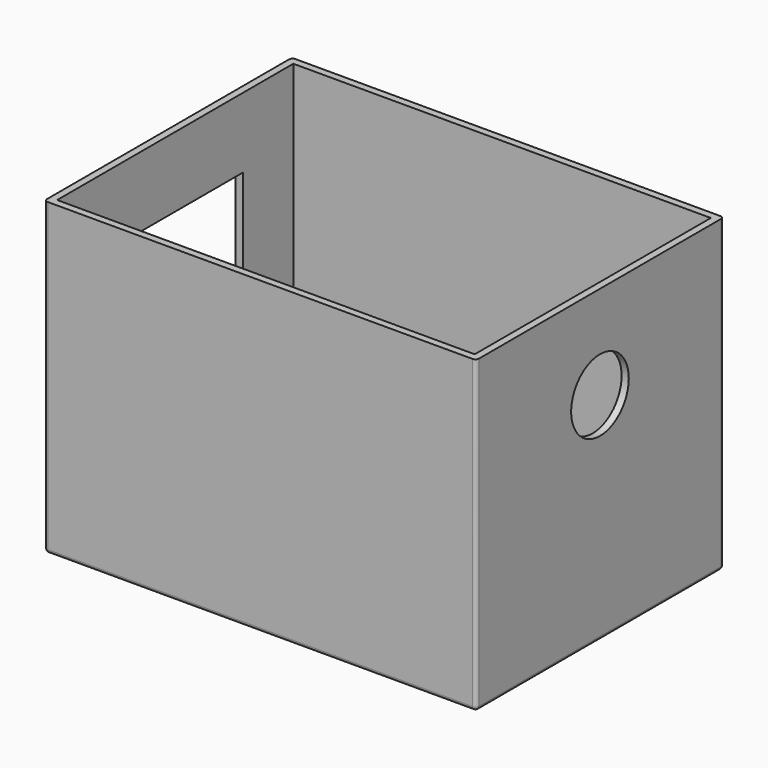
from build123d import *

# Parameters (mm, degrees)
SKETCH_W        = 120
SKETCH_H        = 86
PAD_DEPTH       = 86
SKETCH001_W     = 116
SKETCH001_H     = 82
POCKET_DEPTH    = 83
SKETCH002_W     = 47
SKETCH002_H     = 47
POCKET001_DEPTH = 3
SKETCH003_W     = 25
SKETCH003_H     = 72
POCKET002_DEPTH = 4
SKETCH004_R     = 10
POCKET003_DEPTH = 2
POCKET004_DEPTH = 5
FILLET_R        = 1


with BuildPart() as part:
    # Sketch → Pad (new body)
    with BuildSketch(Plane.XY):
        Rectangle(SKETCH_W, SKETCH_H)
    extrude(amount=PAD_DEPTH)

    # Sketch001 (on Face6 of Pad) → Pocket (cut)
    with BuildSketch(Plane.XY.offset(86)):
        Rectangle(SKETCH001_W, SKETCH001_H)
    extrude(amount=-POCKET_DEPTH, mode=Mode.SUBTRACT)

    # Sketch002 (on Face2 of Pocket) → Pocket001 (cut)
    with BuildSketch(Plane(origin=(-60, 0, 0), x_dir=(0, -1, 0), z_dir=(-1, 0, 0))):
        with Locations((0, 43)):
            Rectangle(SKETCH002_W, SKETCH002_H)
    extrude(amount=-POCKET001_DEPTH, mode=Mode.SUBTRACT)

    # Sketch003 (on Face4 of Pocket001) → Pocket002 (cut)
    with BuildSketch(Plane(origin=(0, 0, 0), x_dir=(1, 0, 0), z_dir=(0, 0, -1))):
        with Locations((40.5, 0)):
            Rectangle(SKETCH003_W, SKETCH003_H)
    extrude(amount=-POCKET002_DEPTH, mode=Mode.SUBTRACT)

    # Sketch004 (on Face3 of Pocket002) → Pocket003 (cut)
    with BuildSketch(Plane.YZ.offset(60)):
        with Locations((0, 60)):
            Circle(SKETCH004_R)
    extrude(amount=-POCKET003_DEPTH, mode=Mode.SUBTRACT)

    # Sketch005 → Pocket004 (cut)
    with BuildSketch(Plane(origin=(0, 0, 0), x_dir=(-1, 0, 0), z_dir=(0, 0, 1))):
        with BuildLine():
            add(Edge.make_bspline(
                [(5.517674, -20.980802), (5.253091, -20.980802), (4.988507, -20.980802), (4.723924, -20.980802)],
                knots=[0, 0, 0, 0, 1, 1, 1, 1], degree=3))
            add(Edge.make_bspline(
                [(4.723924, -20.980802), (4.115118, -20.587133), (3.497713, -20.190258), (2.871841, -19.790177)],
                knots=[0, 0, 0, 0, 1, 1, 1, 1], degree=3))
            add(Edge.make_bspline(
                [(2.871841, -19.790177), (2.739549, -16.042949), (2.695496, -12.294689), (2.739549, -8.545385)],
                knots=[0, 0, 0, 0, 1, 1, 1, 1], degree=3))
            add(Edge.make_bspline(
                [(2.739549, -8.545385), (0.641535, -8.949827), (-1.254733, -9.787683), (-2.948993, -11.058927)],
                knots=[0, 0, 0, 0, 1, 1, 1, 1], degree=3))
            add(Edge.make_bspline(
                [(-2.948993, -11.058927), (-4.332367, -10.345094), (-5.699336, -9.595437), (-7.050034, -8.809968)],
                knots=[0, 0, 0, 0, 1, 1, 1, 1], degree=3))
            add(Edge.make_bspline(
                [(-7.050034, -8.809968), (-7.193306, -8.695536), (-7.215267, -8.563244), (-7.11618, -8.413093)],
                knots=[0, 0, 0, 0, 1, 1, 1, 1], degree=3))
            add(Edge.make_bspline(
                [(-7.11618, -8.413093), (-1.532943, -3.433635), (4.794965, -2.221049), (11.867674, -4.775072)],
                knots=[0, 0, 0, 0, 1, 1, 1, 1], degree=3))
            add(Edge.make_bspline(
                [(11.867674, -4.775072), (13.913498, -5.675714), (15.743529, -6.888432), (17.357778, -8.413093)],
                knots=[0, 0, 0, 0, 1, 1, 1, 1], degree=3))
            add(Edge.make_bspline(
                [(17.357778, -8.413093), (17.456918, -8.563244), (17.434865, -8.695536), (17.291632, -8.809968)],
                knots=[0, 0, 0, 0, 1, 1, 1, 1], degree=3))
            add(Edge.make_bspline(
                [(17.291632, -8.809968), (15.940934, -9.595437), (14.573925, -10.345094), (13.190591, -11.058927)],
                knots=[0, 0, 0, 0, 1, 1, 1, 1], degree=3))
            add(Edge.make_bspline(
                [(13.190591, -11.058927), (11.496331, -9.787683), (9.600063, -8.949827), (7.502049, -8.545385)],
                knots=[0, 0, 0, 0, 1, 1, 1, 1], degree=3))
            add(Edge.make_bspline(
                [(7.502049, -8.545385), (7.546102, -12.294689), (7.502049, -16.042949), (7.369757, -19.790177)],
                knots=[0, 0, 0, 0, 1, 1, 1, 1], degree=3))
            add(Edge.make_bspline(
                [(7.369757, -19.790177), (6.743885, -20.190258), (6.12648, -20.587133), (5.517674, -20.980802)],
                knots=[0, 0, 0, 0, 1, 1, 1, 1], degree=3))
        make_face()
        with BuildLine():
            add(Edge.make_bspline(
                [(8.031216, 17.780657), (8.163507, 17.780657), (8.295799, 17.780657), (8.428091, 17.780657)],
                knots=[0, 0, 0, 0, 1, 1, 1, 1], degree=3))
            add(Edge.make_bspline(
                [(8.428091, 17.780657), (9.676792, 17.001194), (10.955655, 16.251497), (12.264549, 15.531698)],
                knots=[0, 0, 0, 0, 1, 1, 1, 1], degree=3))
            add(Edge.make_bspline(
                [(12.264549, 15.531698), (12.2759, 14.392403), (12.297953, 13.245831), (12.330695, 12.092115)],
                knots=[0, 0, 0, 0, 1, 1, 1, 1], degree=3))
            add(Edge.make_bspline(
                [(12.330695, 12.092115), (12.433128, 11.094901), (12.653619, 10.124673), (12.992153, 9.181698)],
                knots=[0, 0, 0, 0, 1, 1, 1, 1], degree=3))
            add(Edge.make_bspline(
                [(12.992153, 9.181698), (16.112609, 11.061828), (19.265556, 12.891818), (22.451007, 14.671803)],
                knots=[0, 0, 0, 0, 1, 1, 1, 1], degree=3))
            add(Edge.make_bspline(
                [(22.451007, 14.671803), (22.583299, 14.760041), (22.715591, 14.760041), (22.847882, 14.671803)],
                knots=[0, 0, 0, 0, 1, 1, 1, 1], degree=3))
            add(Edge.make_bspline(
                [(22.847882, 14.671803), (23.539596, 14.259979), (24.245146, 13.885064), (24.964549, 13.547323)],
                knots=[0, 0, 0, 0, 1, 1, 1, 1], degree=3))
            add(Edge.make_bspline(
                [(24.964549, 13.547323), (24.964549, 12.533043), (24.964549, 11.518895), (24.964549, 10.504615)],
                knots=[0, 0, 0, 0, 1, 1, 1, 1], degree=3))
            add(Edge.make_bspline(
                [(24.964549, 10.504615), (21.775195, 8.711137), (18.600195, 6.881146), (15.439549, 5.014511)],
                knots=[0, 0, 0, 0, 1, 1, 1, 1], degree=3))
            add(Edge.make_bspline(
                [(15.439549, 5.014511), (16.781264, 3.459819), (18.412857, 2.291287), (20.334341, 1.508782)],
                knots=[0, 0, 0, 0, 1, 1, 1, 1], degree=3))
            add(Edge.make_bspline(
                [(20.334341, 1.508782), (20.466513, -0.164575), (20.510606, -1.840314), (20.466632, -3.518302)],
                knots=[0, 0, 0, 0, 1, 1, 1, 1], degree=3))
            add(Edge.make_bspline(
                [(20.466632, -3.518302), (15.750038, -2.26378), (12.156123, 0.470292), (9.684862, 4.683782)],
                knots=[0, 0, 0, 0, 1, 1, 1, 1], degree=3))
            add(Edge.make_bspline(
                [(9.684862, 4.683782), (7.409445, 8.841577), (6.858318, 13.207202), (8.031216, 17.780657)],
                knots=[0, 0, 0, 0, 1, 1, 1, 1], degree=3))
        make_face()
        with BuildLine():
            add(Edge.make_bspline(
                [(-14.722951, 10.504615), (-14.722951, 11.518895), (-14.722951, 12.533043), (-14.722951, 13.547323)],
                knots=[0, 0, 0, 0, 1, 1, 1, 1], degree=3))
            add(Edge.make_bspline(
                [(-14.722951, 13.547323), (-14.003549, 13.885064), (-13.298037, 14.259979), (-12.606284, 14.671803)],
                knots=[0, 0, 0, 0, 1, 1, 1, 1], degree=3))
            add(Edge.make_bspline(
                [(-12.606284, 14.671803), (-12.473993, 14.760041), (-12.341701, 14.760041), (-12.209409, 14.671803)],
                knots=[0, 0, 0, 0, 1, 1, 1, 1], degree=3))
            add(Edge.make_bspline(
                [(-12.209409, 14.671803), (-9.023958, 12.891818), (-5.871051, 11.061828), (-2.750555, 9.181698)],
                knots=[0, 0, 0, 0, 1, 1, 1, 1], degree=3))
            add(Edge.make_bspline(
                [(-2.750555, 9.181698), (-2.412021, 10.124673), (-2.191491, 11.094901), (-2.089097, 12.092115)],
                knots=[0, 0, 0, 0, 1, 1, 1, 1], degree=3))
            add(Edge.make_bspline(
                [(-2.089097, 12.092115), (-2.056421, 13.245831), (-2.034328, 14.392403), (-2.022951, 15.531698)],
                knots=[0, 0, 0, 0, 1, 1, 1, 1], degree=3))
            add(Edge.make_bspline(
                [(-2.022951, 15.531698), (-0.714057, 16.251497), (0.564806, 17.001194), (1.813507, 17.780657)],
                knots=[0, 0, 0, 0, 1, 1, 1, 1], degree=3))
            add(Edge.make_bspline(
                [(1.813507, 17.780657), (1.945799, 17.780657), (2.078091, 17.780657), (2.210382, 17.780657)],
                knots=[0, 0, 0, 0, 1, 1, 1, 1], degree=3))
            add(Edge.make_bspline(
                [(2.210382, 17.780657), (3.855562, 10.1256), (1.606603, 3.885798), (-4.536493, -0.938614)],
                knots=[0, 0, 0, 0, 1, 1, 1, 1], degree=3))
            add(Edge.make_bspline(
                [(-4.536493, -0.938614), (-6.268852, -2.157549), (-8.165121, -3.017445), (-10.225034, -3.518302)],
                knots=[0, 0, 0, 0, 1, 1, 1, 1], degree=3))
            add(Edge.make_bspline(
                [(-10.225034, -3.518302), (-10.268955, -1.840314), (-10.224902, -0.164575), (-10.092743, 1.508782)],
                knots=[0, 0, 0, 0, 1, 1, 1, 1], degree=3))
            add(Edge.make_bspline(
                [(-10.092743, 1.508782), (-8.205867, 2.297372), (-6.574181, 3.443944), (-5.197951, 4.948365)],
                knots=[0, 0, 0, 0, 1, 1, 1, 1], degree=3))
            add(Edge.make_bspline(
                [(-5.197951, 4.948365), (-5.344133, 5.132515), (-5.52061, 5.2869), (-5.727118, 5.411386)],
                knots=[0, 0, 0, 0, 1, 1, 1, 1], degree=3))
            add(Edge.make_bspline(
                [(-5.727118, 5.411386), (-8.711485, 7.14573), (-11.710141, 8.843561), (-14.722951, 10.504615)],
                knots=[0, 0, 0, 0, 1, 1, 1, 1], degree=3))
        make_face()
    extrude(amount=POCKET004_DEPTH, mode=Mode.SUBTRACT)

    # Fillet
    fillet_edges = [part.edges().sort_by_distance(p)[0] for p in [
        (60, -43, 43),
        (60, 0, 0),
        (60, 43, 43),
        (0, 43, 0),
        (0, -43, 0),
        (-60, 43, 43),
        (-60, -43, 43),
        (-60, 0, 0),
    ]]
    fillet(fillet_edges, radius=FILLET_R)


solid = part.part
